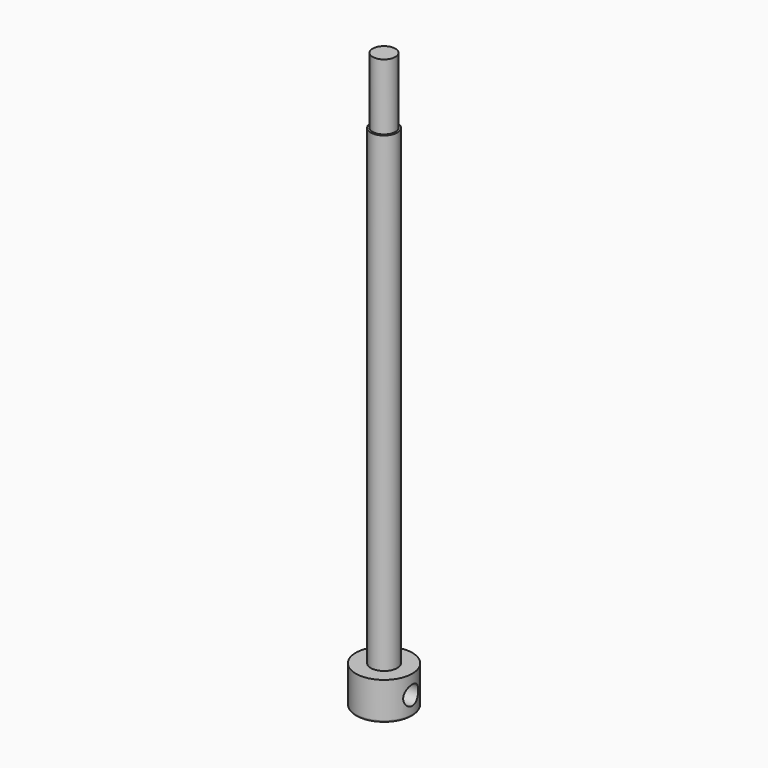
from build123d import *

# Parameters (mm, degrees)
F0_R          = 7
F1_DEPTH      = 125
F2_R          = 6
F3_DEPTH      = 35
F4_R          = 15
F5_DEPTH      = 20
F6_R          = 5
F7_DEPTH      = 15.001
F7_DEPTH_BACK = 25
F8_R          = 1


with BuildPart() as f1:
    # F0 (on Top) → F1 (new body, symmetric)
    with BuildSketch(Plane.XY):
        Circle(F0_R)
    extrude(amount=F1_DEPTH, both=True)

    # F2 (on face) → F3 (join)
    with BuildSketch(Plane.XY.offset(125)):
        Circle(F2_R)
    extrude(amount=F3_DEPTH)

    # F4 (on face) → F5 (join)
    with BuildSketch(Plane(origin=(0, 0, -125), x_dir=(1, 0, 0), z_dir=(0, 0, -1))):
        Circle(F4_R)
    extrude(amount=F5_DEPTH)

    # F6 (on Right) → F7 (cut, two sides)
    with BuildSketch(Plane.YZ) as f7_sk:
        with Locations((0, -135)):
            Circle(F6_R)
    extrude(amount=-F7_DEPTH, mode=Mode.SUBTRACT)
    extrude(f7_sk.sketch, amount=F7_DEPTH_BACK, mode=Mode.SUBTRACT)

    # F8
    f8_edges = [f1.edges().sort_by_distance(p)[0] for p in [
        (-15, 0, -145),
    ]]
    fillet(f8_edges, radius=F8_R)


solid = f1.part
